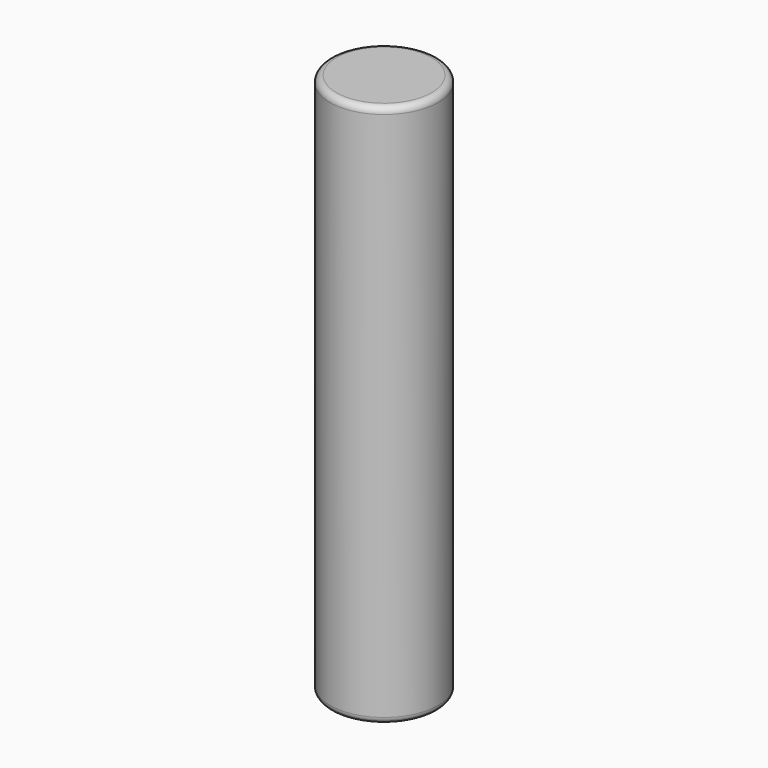
from build123d import *

# Parameters (mm, degrees)
F0_R     = 4.15
F1_DEPTH = 41.7
F2_R     = 1.75
F3_DEPTH = 0.8
F4_R     = 0.5
F5_R     = 0.5
F6_R     = 0.3


with BuildPart() as f1:
    # F0 (on Top) → F1 (new body)
    with BuildSketch(Plane.XY):
        Circle(F0_R)
    extrude(amount=F1_DEPTH)

    # F2 (on face) → F3 (join)
    with BuildSketch(Plane(origin=(0, 0, 0), x_dir=(1, 0, 0), z_dir=(0, 0, -1))):
        Circle(F2_R)
    extrude(amount=F3_DEPTH)

    # F4
    f4_edges = [f1.edges().sort_by_distance(p)[0] for p in [
        (-4.15, 0, 0),
    ]]
    fillet(f4_edges, radius=F4_R)

    # F5
    f5_edges = [f1.edges().sort_by_distance(p)[0] for p in [
        (-4.15, 0, 41.7),
    ]]
    fillet(f5_edges, radius=F5_R)

    # F6
    f6_edges = [f1.edges().sort_by_distance(p)[0] for p in [
        (-1.75, 0, -0.8),
        (-1.75, 0, 0),
    ]]
    fillet(f6_edges, radius=F6_R)


solid = f1.part
